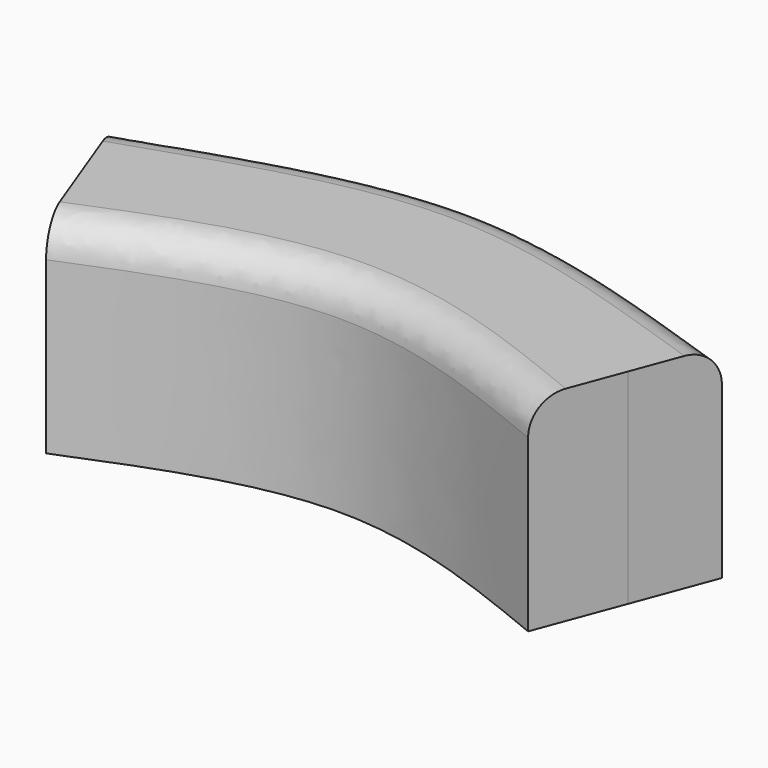
from build123d import *

# Parameters (mm, degrees)
F1_DEPTH = 30.48
F2_R     = 5.08


with BuildPart() as f1:
    # F0 (on Top) → F1 (new body)
    with BuildSketch(Plane.XY):
        with BuildLine():
            Line((-45.563514, -33.3848), (-41.111397, -45.278859))
            Line((-41.111397, -45.278859), (-36.357604, -57.978859))
            add(Edge.make_bspline(
                [(-36.357604, -57.978859), (-24.389937, -53.096968), (-0.454603, -43.333187), (23.480731, -53.096968), (35.448398, -57.978859)],
                knots=[0, 0, 0, 0, 37.206947, 74.413894, 74.413894, 74.413894, 74.413894], degree=3))
            Line((35.448398, -57.978859), (40.202191, -45.278859))
            Line((40.202191, -45.278859), (44.654308, -33.3848))
            add(Edge.make_bspline(
                [(-45.563514, -33.3848), (-30.527211, -28.382681), (-0.454603, -17.247475), (29.618004, -28.382681), (44.654308, -33.3848)],
                knots=[0, 0, 0, 0, 46.330691, 92.661381, 92.661381, 92.661381, 92.661381], degree=3))
        make_face()
    extrude(amount=F1_DEPTH)

    # F2
    f2_edges = [f1.edges().sort_by_distance(p)[0] for p in [
        (-0.454603, -48.215078, 30.48),
        (-0.454603, -22.815078, 30.48),
    ]]
    fillet(f2_edges, radius=F2_R)


solid = f1.part
